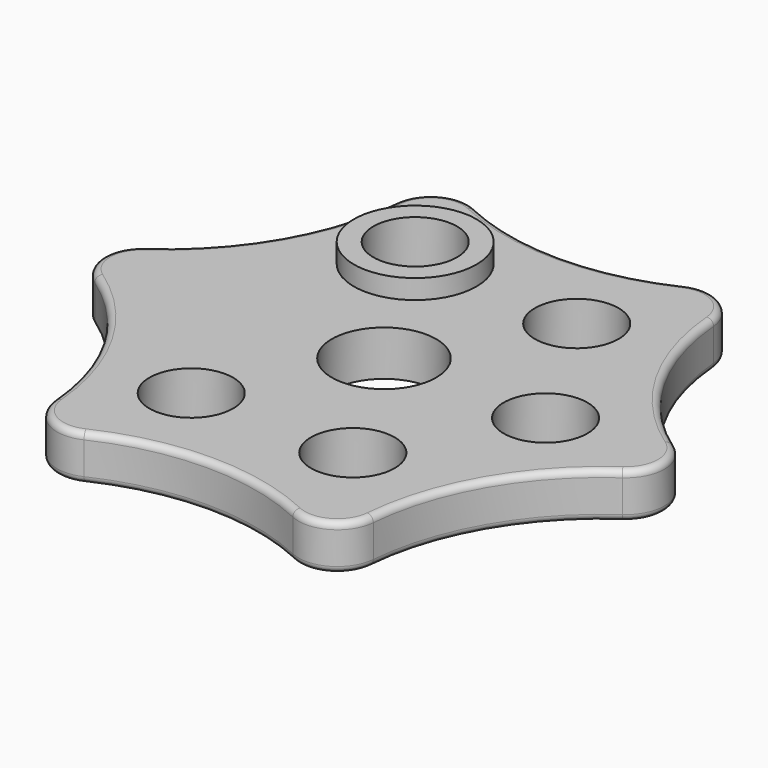
from build123d import *

# Parameters (mm, degrees)
F0_R     = 6.475
F0_R_2   = 8.075
F0_R_3   = 9.489284
F1_DEPTH = 7
F2_R     = 1
F3_DEPTH = 10


with BuildPart() as f1:
    # F0 (on Top) → F1 (new body)
    with BuildSketch(Plane.XY):
        with BuildLine():
            ThreePointArc((16.159417, 37.810102), (0.007728, 34.221128), (-16.142338, 37.817397))
            ThreePointArc((-16.142338, 37.817397), (-21.685837, 37.580569), (-24.6648, 32.899517))
            ThreePointArc((-24.6648, 32.899517), (-29.632502, 17.117257), (-40.821996, 4.929024))
            ThreePointArc((-40.821996, 4.929024), (-43.388646, 0.009799), (-40.824218, -4.910585))
            ThreePointArc((-40.824218, -4.910585), (-29.64023, -17.103871), (-24.679658, -32.888373))
            ThreePointArc((-24.679658, -32.888373), (-21.702809, -37.57077), (-16.159417, -37.810102))
            ThreePointArc((-16.159417, -37.810102), (-0.007728, -34.221128), (16.142338, -37.817397))
            ThreePointArc((16.142338, -37.817397), (21.685837, -37.580569), (24.6648, -32.899517))
            ThreePointArc((24.6648, -32.899517), (29.632502, -17.117257), (40.821996, -4.929024))
            ThreePointArc((40.821996, -4.929024), (43.388646, -0.009799), (40.824218, 4.910585))
            ThreePointArc((40.824218, 4.910585), (29.64023, 17.103871), (24.679658, 32.888373))
            ThreePointArc((24.679658, 32.888373), (21.702809, 37.57077), (16.159417, 37.810102))
        make_face()
        with Locations((-12.504889, -21.647812)):
            Circle(F0_R, mode=Mode.SUBTRACT)
        with Locations((12.49511, -21.653457)):
            Circle(F0_R, mode=Mode.SUBTRACT)
        Circle(F0_R_2, mode=Mode.SUBTRACT)
        with Locations((24.999999, -0.005646)):
            Circle(F0_R, mode=Mode.SUBTRACT)
        with Locations((-12.49511, 21.653457)):
            Circle(F0_R_3, mode=Mode.SUBTRACT)
        with Locations((12.504889, 21.647812)):
            Circle(F0_R, mode=Mode.SUBTRACT)
    extrude(amount=F1_DEPTH)

    # F2
    f2_edges = [f1.edges().sort_by_distance(p)[0] for p in [
        (0.007728, 34.221128, 7),
        (-29.632502, 17.117257, 0),
    ]]
    fillet(f2_edges, radius=F2_R)

    # F0 (on Top) → F3 (join)
    with BuildSketch(Plane.XY):
        with Locations((-12.49511, 21.653457)):
            Circle(F0_R_3)
        with Locations((-12.49511, 21.653457)):
            Circle(F0_R, mode=Mode.SUBTRACT)
    extrude(amount=F3_DEPTH)


solid = f1.part
